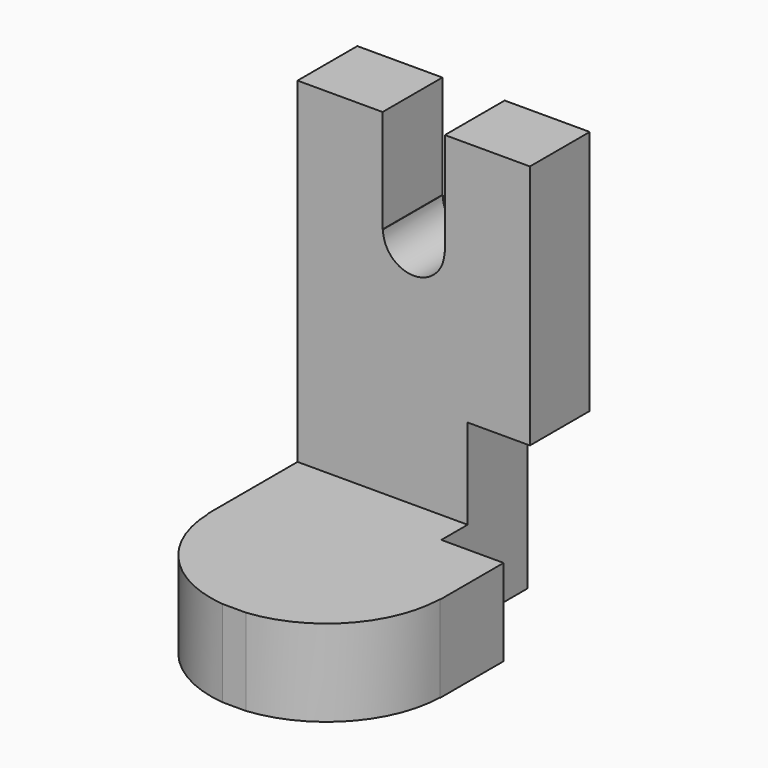
from build123d import *

# Parameters (mm, degrees)
F0_W     = 39.4888110459
F0_H     = 71.7479661107
F1_DEPTH = 12.7
F2_W     = 39.4888110459
F2_H     = 14.7085804492
F3_DEPTH = 38.1
F5_DEPTH = 25.4
F7_DEPTH = 25.4
F8_W     = 10.5819702148
F8_H     = 30.0025250763
F9_DEPTH = 18.288


with BuildPart() as f1:
    # F0 (on Front) → F1 (new body)
    with BuildSketch(Plane.XZ):
        Rectangle(F0_W, F0_H)
    extrude(amount=F1_DEPTH)

    # F2 (on face) → F3 (join)
    with BuildSketch(Plane.XZ.offset(12.7)):
        with Locations((0, -28.5196928307)):
            Rectangle(F2_W, F2_H)
    extrude(amount=F3_DEPTH)

    # F4 (on face) → F5 (cut)
    with BuildSketch(Plane.XZ.offset(12.7)):
        with BuildLine():
            Line((-5.2909860387, 53.4245613962), (-5.2909860387, 18.3234047145))
            Line((-5.2909860387, 18.3234047145), (-5.2212785764, 18.3234047145))
            ThreePointArc((-5.2212785764, 18.3234047145), (0, 13.1021261381), (5.2212785764, 18.3234047145))
            Line((5.2212785764, 18.3234047145), (5.2909860387, 18.3234047145))
            Line((5.2909860387, 18.3234047145), (5.2909860387, 53.4245613962))
            Line((5.2909860387, 53.4245613962), (-5.2909860387, 53.4245613962))
        make_face()
    extrude(amount=-F5_DEPTH, mode=Mode.SUBTRACT)

    # F6 (on face) → F7 (cut)
    with BuildSketch(Plane.XY.offset(-21.1654026061)):
        with BuildLine():
            ThreePointArc((-1.976119183, -50.8), (-14.4143084854, -44.6129399446), (-19.6615021384, -31.75))
            Line((-19.6615021384, -31.75), (-19.7444055229, -31.75))
            Line((-19.7444055229, -31.75), (-19.7444055229, -50.8))
            Line((-19.7444055229, -50.8), (-1.976119183, -50.8))
        make_face()
        with BuildLine():
            Line((19.7444055229, -31.75), (19.6615021384, -31.75))
            ThreePointArc((19.6615021384, -31.75), (14.4143084854, -44.6129399446), (1.976119183, -50.8))
            Line((1.976119183, -50.8), (19.7444055229, -50.8))
            Line((19.7444055229, -50.8), (19.7444055229, -31.75))
        make_face()
    extrude(amount=-F7_DEPTH, mode=Mode.SUBTRACT)

    # F8 (on face) → F9 (cut)
    with BuildSketch(Plane(origin=(0, 0, 0), x_dir=(-1, 0, 0), z_dir=(0, 1, 0))):
        with Locations((-14.4534204155, -20.8727205172)):
            Rectangle(F8_W, F8_H)
    extrude(amount=-F9_DEPTH, mode=Mode.SUBTRACT)


solid = f1.part
